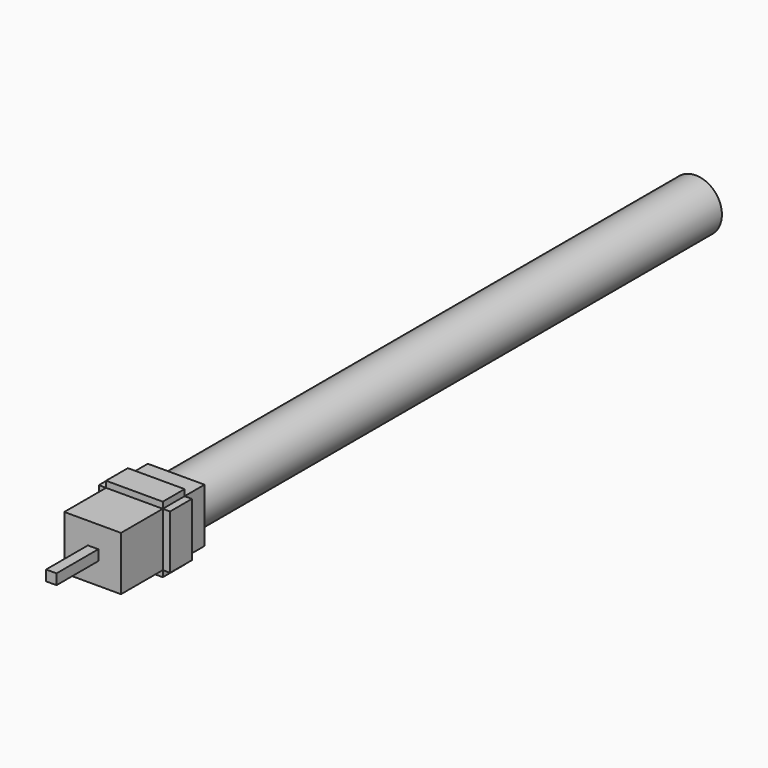
from build123d import *

# Parameters (mm, degrees)
F0_R      = 6.35
F1_DEPTH  = 78.994
F3_W      = 13.791928
F3_H      = 13.131412
F4_DEPTH  = 25.4
F5_W      = 6.633806
F5_H      = 13.131412
F6_DEPTH  = 1.778
F7_W      = 13.791928
F7_H      = 6.633806
F8_DEPTH  = 1.524
F11_W     = 2.54
F11_H     = 2.54
F12_DEPTH = 12.7


with BuildPart() as f1:
    # F0 (on Front) → F1 (new body)
    with BuildSketch(Plane.XZ):
        Circle(F0_R)
    extrude(amount=F1_DEPTH)

    # F2: F1 across plane


with BuildPart() as f1_1:
    add(f1.part)
    add(f1.part.mirror(Plane.XZ))

    # F3 (on face) → F4 (join)
    with BuildSketch(Plane.XZ.offset(78.994)):
        Rectangle(F3_W, F3_H)
    extrude(amount=F4_DEPTH)

    # F5 (on face) → F6 (join)
    with BuildSketch(Plane(origin=(-6.895964, 0, 0), x_dir=(0, -1, 0), z_dir=(-1, 0, 0))):
        with Locations((88.377097, 0)):
            Rectangle(F5_W, F5_H)
    extrude(amount=F6_DEPTH)

    # F7 (on face) → F8 (join)
    with BuildSketch(Plane(origin=(0, 0, -6.565706), x_dir=(1, 0, 0), z_dir=(0, 0, -1))):
        with Locations((0, 88.377097)):
            Rectangle(F7_W, F7_H)
    extrude(amount=F8_DEPTH)

    # F9: F1 across plane


with BuildPart() as f1_2:
    add(f1_1.part)
    add(f1_1.part.mirror(Plane.YZ))

    # F10: F1 across plane


with BuildPart() as f1_3:
    add(f1_2.part)
    add(f1_2.part.mirror(Plane.XY))

    # F11 (on face) → F12 (join)
    with BuildSketch(Plane.XZ.offset(104.394)):
        with Locations((0.104479, 0.000465)):
            Rectangle(F11_W, F11_H)
    extrude(amount=F12_DEPTH)


solid = f1_3.part
